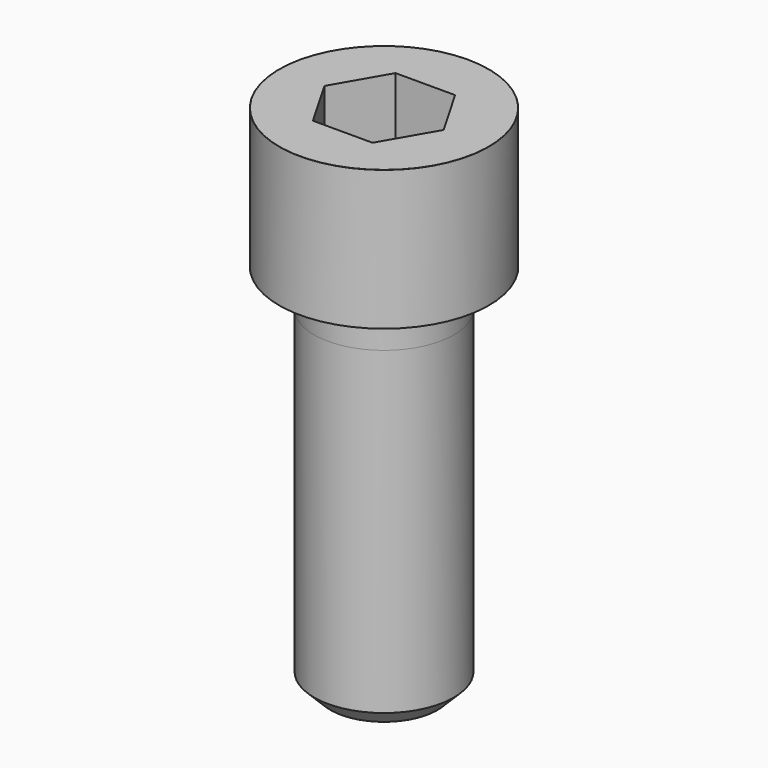
from build123d import *

# Parameters (mm, degrees)
POCKET_DEPTH = 22.15


with BuildPart() as part:
    # Sketch → Revolve (revolve)
    with BuildSketch(Plane.YZ):
        with BuildLine():
            Line((14.999, 0), (22.5, 0))
            Line((22.5, 0), (22.5, 29.97229))
            ThreePointArc((22.5, 29.97229), (22.491884, 29.991884), (22.47229, 30))
            Line((22.47229, 30), (0, 30))
            Line((0, -80), (0, 30))
            Line((11.5, -80), (0, -80))
            Line((15, -76.5), (11.5, -80))
            Line((15, -8), (15, -76.5))
            Line((14.999, 0), (15, -8))
        make_face()
    revolve(axis=Axis((0, 0, 0), (0, 0, 1)))

    # Sketch001 → Pocket (cut)
    with BuildSketch(Plane.XY.offset(30)):
        Polygon((12.788308, 0), (6.394154, 11.075), (-6.394154, 11.075), (-12.788308, 0), (-6.394154, -11.075), (6.394154, -11.075), align=None)
    extrude(amount=-POCKET_DEPTH, mode=Mode.SUBTRACT)


solid = part.part
